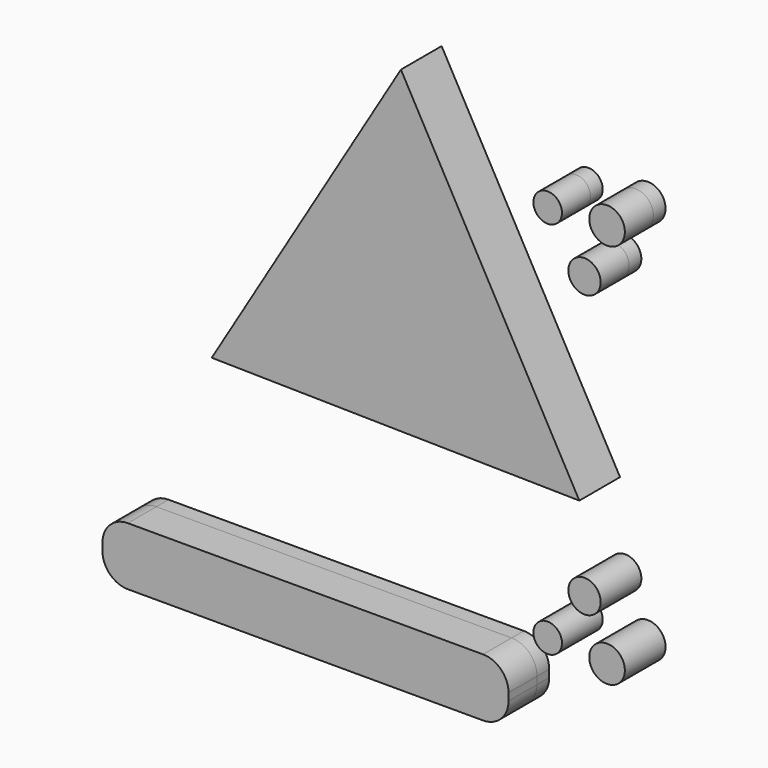
from build123d import *

# Parameters (mm, degrees)
F1_DEPTH = 12.7
F3_DEPTH = 12.7
F2_R     = 3.56832736
F2_R_2   = 4.0305690693
F2_R_3   = 4.445001483
F4_DEPTH = 3.81


with BuildPart() as f1:
    # F0 (on Front) → F1 (new body)
    with BuildSketch(Plane.XZ):
        Polygon((-47.2452260642, -13.0078209857), (44.4971116884, -14.5596424118), (-0.0301404108, 65.6674633975), align=None)
    extrude(amount=F1_DEPTH)


with BuildPart() as f3:
    # F2 (on Front) → F3 (new body)
    with BuildSketch(Plane.XZ):
        with BuildLine():
            Line((20.4681655556, -56.15516752), (-68.1778298855, -56.15516752))
            ThreePointArc((-68.1778298855, -56.15516752), (-72.667957946, -58.0150394595), (-74.5278298855, -62.50516752))
            Line((-74.5278298855, -62.50516752), (-74.5278298855, -64.3254997373))
            ThreePointArc((-74.5278298855, -64.3254997373), (-72.667957946, -68.8156277978), (-68.1778298855, -70.6754997373))
            Line((-68.1778298855, -70.6754997373), (20.4681655556, -70.6754997373))
            ThreePointArc((20.4681655556, -70.6754997373), (24.9582936161, -68.8156277978), (26.8181655556, -64.3254997373))
            Line((26.8181655556, -64.3254997373), (26.8181655556, -62.50516752))
            ThreePointArc((26.8181655556, -62.50516752), (24.9582936161, -58.0150394595), (20.4681655556, -56.15516752))
        make_face()
    extrude(amount=F3_DEPTH)


with BuildPart() as f3b:
    # F2 (on Front) → F3, piece 2 (new body)
    with BuildSketch(Plane.XZ):
        with Locations((36.5971662104, 47.2651682794)):
            Circle(F2_R)
    extrude(amount=F3_DEPTH)


with BuildPart() as f3c:
    # F2 (on Front) → F3, piece 3 (new body)
    with BuildSketch(Plane.XZ):
        with Locations((45.7835011184, 35.1154990494)):
            Circle(F2_R_2)
    extrude(amount=F3_DEPTH)


with BuildPart() as f3d:
    # F2 (on Front) → F3, piece 4 (new body)
    with BuildSketch(Plane.XZ):
        with Locations((51.413834095, 48.1541678309)):
            Circle(F2_R_3)
    extrude(amount=F3_DEPTH)


with BuildPart() as f4:
    # F2 (on Front) → F4 (new body)
    with BuildSketch(Plane.XZ):
        with BuildLine():
            Line((20.4681655556, -56.15516752), (-68.1778298855, -56.15516752))
            ThreePointArc((-68.1778298855, -56.15516752), (-72.667957946, -58.0150394595), (-74.5278298855, -62.50516752))
            Line((-74.5278298855, -62.50516752), (-74.5278298855, -64.3254997373))
            ThreePointArc((-74.5278298855, -64.3254997373), (-72.667957946, -68.8156277978), (-68.1778298855, -70.6754997373))
            Line((-68.1778298855, -70.6754997373), (20.4681655556, -70.6754997373))
            ThreePointArc((20.4681655556, -70.6754997373), (24.9582936161, -68.8156277978), (26.8181655556, -64.3254997373))
            Line((26.8181655556, -64.3254997373), (26.8181655556, -62.50516752))
            ThreePointArc((26.8181655556, -62.50516752), (24.9582936161, -58.0150394595), (20.4681655556, -56.15516752))
        make_face()
    extrude(amount=F4_DEPTH)


with BuildPart() as f4b:
    # F2 (on Front) → F4, piece 2 (new body)
    with BuildSketch(Plane.XZ):
        with Locations((36.5971662104, 47.2651682794)):
            Circle(F2_R)
    extrude(amount=F4_DEPTH)


with BuildPart() as f4c:
    # F2 (on Front) → F4, piece 3 (new body)
    with BuildSketch(Plane.XZ):
        with Locations((45.7835011184, 35.1154990494)):
            Circle(F2_R_2)
    extrude(amount=F4_DEPTH)


with BuildPart() as f4d:
    # F2 (on Front) → F4, piece 4 (new body)
    with BuildSketch(Plane.XZ):
        with Locations((51.413834095, 48.1541678309)):
            Circle(F2_R_3)
    extrude(amount=F4_DEPTH)


with BuildPart() as f5_1:
    # F5: instance of F3d
    add(f3d.part.mirror(Plane.XY))


with BuildPart() as f5_2:
    # F5: instance of F3b
    add(f3b.part.mirror(Plane.XY))


with BuildPart() as f5_3:
    # F5: instance of F3c
    add(f3c.part.mirror(Plane.XY))


solid = Compound([f1.part, f3.part, f3b.part, f3c.part, f3d.part, f4.part, f4b.part, f4c.part, f4d.part, f5_1.part, f5_2.part, f5_3.part])
